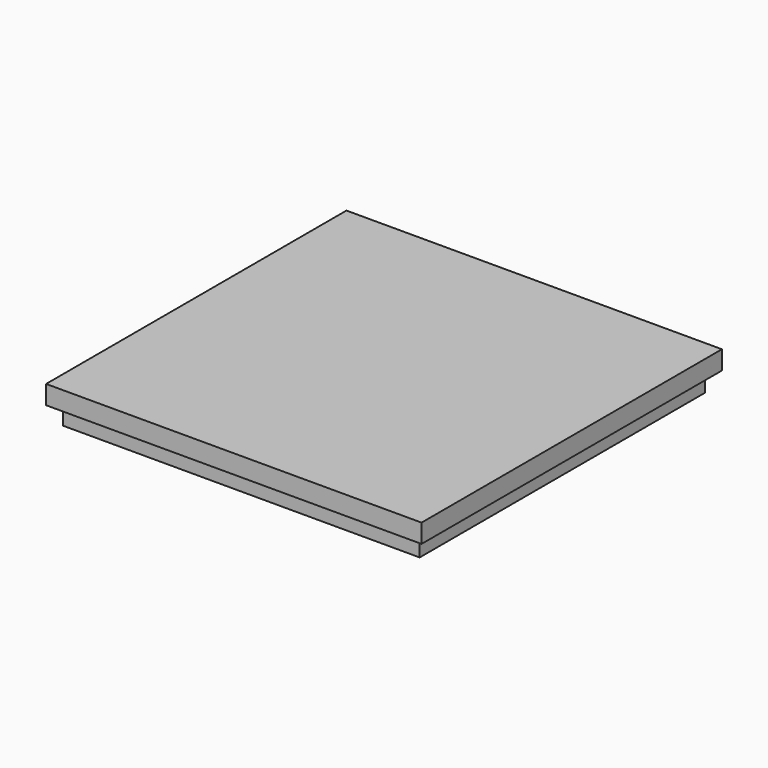
from build123d import *

# Parameters (mm, degrees)
F0_W     = 60
F0_H     = 60
F1_DEPTH = 3
F2_W     = 57
F2_H     = 57
F3_DEPTH = 3


with BuildPart() as f1:
    # F0 (on Top) → F1 (new body)
    with BuildSketch(Plane.XY):
        Rectangle(F0_W, F0_H)
    extrude(amount=F1_DEPTH)

    # F2 (on Top) → F3 (join)
    with BuildSketch(Plane.XY):
        Rectangle(F2_W, F2_H)
    extrude(amount=-F3_DEPTH)


solid = f1.part
